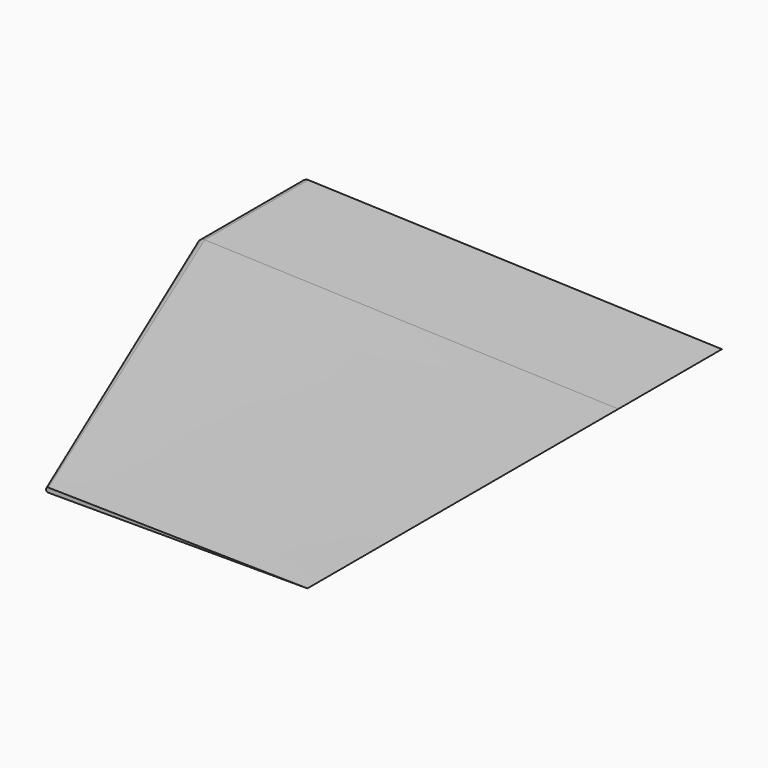
from build123d import *

# Parameters (mm, degrees)
F2_DEPTH = 12.7


with BuildPart() as f2:
    # F0 (on Front) → F2 (new body)
    with BuildSketch(Plane.XZ):
        with BuildLine():
            Line((-40.553772, 0), (0, 0))
            Line((0, 0), (-40.553772, 1.416169))
            ThreePointArc((-40.553772, 1.416169), (-41.261856, 0.708084), (-40.553772, 0))
        make_face()
    extrude(amount=F2_DEPTH)

    # F2_face (on face) → F4 section 0
    with BuildSketch(Plane(origin=(-27.404725, -12.7, 0.478357), x_dir=(1, 0, 0), z_dir=(0, -1, 0))):
        with BuildLine():
            Line((-13.149047, -0.478357), (27.404725, -0.478357))
            Line((27.404725, -0.478357), (-13.149047, 0.937812))
            ThreePointArc((-13.149047, 0.937812), (-13.857131, 0.229727), (-13.149047, -0.478357))
        make_face()
    # F3 (on offset) → F4 section 1
    with BuildSketch(Plane.XZ.offset(50.8)):
        with BuildLine():
            Line((-25.4, 0), (0, 0))
            Line((0, 0), (-25.4, 0.443359))
            ThreePointArc((-25.4, 0.443359), (-25.625583, 0.221679), (-25.4, 0))
        make_face()
    loft()


solid = f2.part
